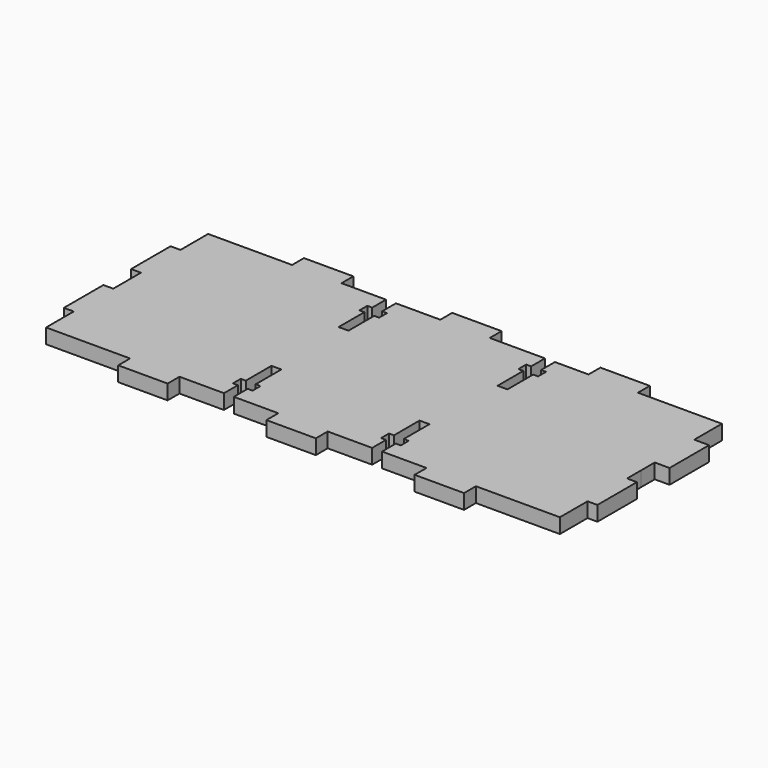
from build123d import *

# Parameters (mm, degrees)
F1_DEPTH = 1.5


with BuildPart() as f1:
    # F0 (on Top) → F1 (new body, symmetric)
    with BuildSketch(Plane.XY):
        Polygon((-35.216166, 20.558627), (-52.216166, 20.558627), (-52.216166, 13.558627), (-54.216167, 13.558627), (-54.216167, 3.558627), (-52.216166, 3.558627), (-52.216166, 0.117234), (-52.216166, 0.058636), (-52.216167, -3.441373), (-54.216168, -3.441373), (-54.21617, -13.441373), (-52.216169, -13.441373), (-52.21617, -20.441373), (-35.21617, -20.441376), (-35.216171, -23.441376), (-25.216171, -23.441378), (-25.21617, -20.441378), (-16.21617, -20.44138), (-16.197403, -16.94138), (-17.197403, -16.941379), (-17.197403, -14.941379), (-16.197403, -14.94138), (-16.197402, -8.44138), (-14.197402, -8.44138), (-14.197403, -14.94138), (-13.216169, -14.94138), (-13.216169, -16.94138), (-14.216169, -16.94138), (-14.21617, -20.44138), (-5.21617, -20.441381), (-5.216171, -23.441381), (4.783829, -23.441383), (4.78383, -20.441383), (13.78383, -20.441385), (13.783831, -16.941385), (12.783831, -16.941385), (12.783831, -14.941385), (13.783831, -14.941385), (13.783832, -8.441385), (15.783832, -8.441385), (15.783831, -14.941385), (16.783831, -14.941385), (16.783831, -16.941385), (15.783831, -16.941385), (15.78383, -20.441385), (24.78383, -20.441387), (24.783829, -23.441387), (34.783829, -23.441388), (34.78383, -20.44137), (51.78383, -20.441373), (51.783831, -13.441373), (53.783831, -13.441374), (53.783833, -3.441374), (51.783833, -3.441373), (51.783834, 0.058627), (51.783834, 3.558627), (54.783834, 3.558627), (54.783834, 13.558627), (51.783834, 13.558627), (51.783834, 20.558627), (34.783834, 20.558627), (34.783834, 23.558627), (24.783834, 23.558627), (24.783834, 20.558627), (17.97472, 20.558627), (17.97472, 17.058627), (18.97472, 17.058627), (18.97472, 15.058627), (17.97472, 15.058627), (17.97472, 8.558627), (15.97472, 8.558627), (15.97472, 15.058627), (14.97472, 15.058627), (14.97472, 17.058627), (15.97472, 17.058627), (15.97472, 20.558627), (4.783834, 20.558627), (4.783834, 23.558627), (-5.216166, 23.558627), (-5.216166, 20.558627), (-14.198416, 20.558627), (-14.198416, 17.058627), (-13.198416, 17.058627), (-13.198416, 15.058627), (-14.198416, 15.058627), (-14.198416, 8.558627), (-16.198416, 8.558627), (-16.198416, 15.058627), (-17.198416, 15.058627), (-17.198416, 17.058627), (-16.198416, 17.058627), (-16.217182, 20.558627), (-25.216166, 20.558627), (-25.216166, 23.558627), (-35.216166, 23.558627), align=None)
    extrude(amount=F1_DEPTH, both=True)


solid = f1.part
